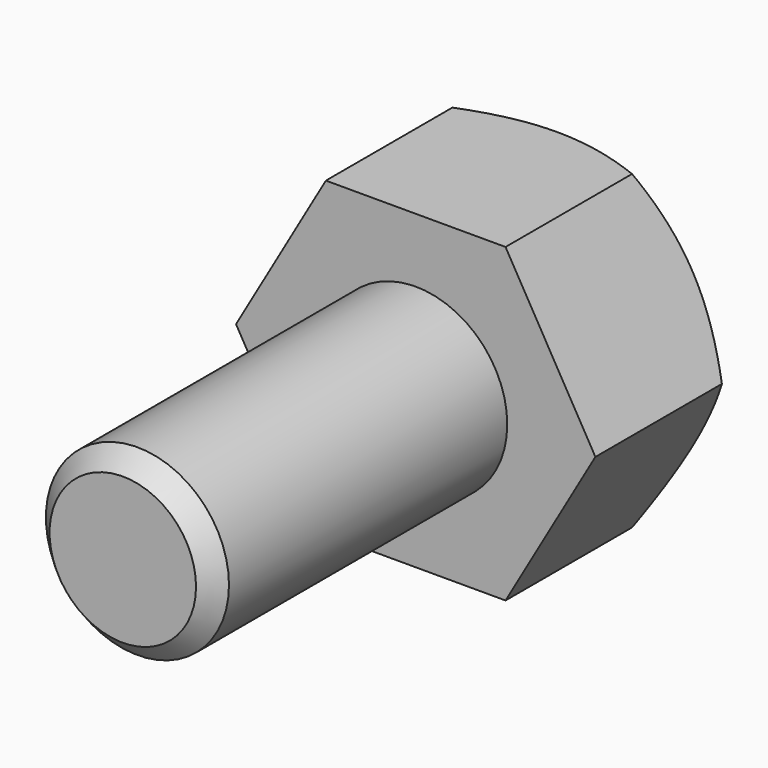
from build123d import *

# Parameters (mm, degrees)
F1_R     = 5
F2_DEPTH = 20
F3_R     = 5
F4_DEPTH = 10
F7_SIZE  = 1


with BuildPart() as f2:
    # F1 (on Front) → F2 (new body)
    with BuildSketch(Plane.XZ):
        Circle(F1_R)
    extrude(amount=F2_DEPTH)

    # F3 (on face) → F4 (join)
    with BuildSketch(Plane(origin=(0, 0, 0), x_dir=(-1, 0, 0), z_dir=(0, 1, 0))):
        Polygon((4.9074772881, 8.5), (-4.9074772881, 8.5), (-9.8149545762, 0), (-4.9074772881, -8.5), (4.9074772881, -8.5), (9.8149545762, 0), align=None)
        Circle(F3_R, mode=Mode.SUBTRACT)
        Circle(F3_R)
    extrude(amount=F4_DEPTH)

    # F5 (on Right) → F6 (revolve, cut)
    with BuildSketch(Plane.YZ):
        Polygon((13.2906628903, 17.3963494964), (6.7229466513, 12.2716045007), (10, 8.0718332902), align=None)
    revolve(axis=Axis((0, 0, 0), (0, 1, 0)), mode=Mode.SUBTRACT)

    # F7
    f7_edges = [f2.edges().sort_by_distance(p)[0] for p in [
        (-5, -20, 0),
    ]]
    chamfer(f7_edges, length=F7_SIZE)


with BuildPart() as f8_1:
    # F8: copy of F2
    add(f2.part.moved(Location((25, 0, 0))))


with BuildPart() as f10_1:
    # F10: copy of F2
    add(f2.part)


with BuildPart() as f12_1:
    # F12: copy of F2
    add(f2.part.moved(Location((50, 0, 0))))


solid = f2.part
